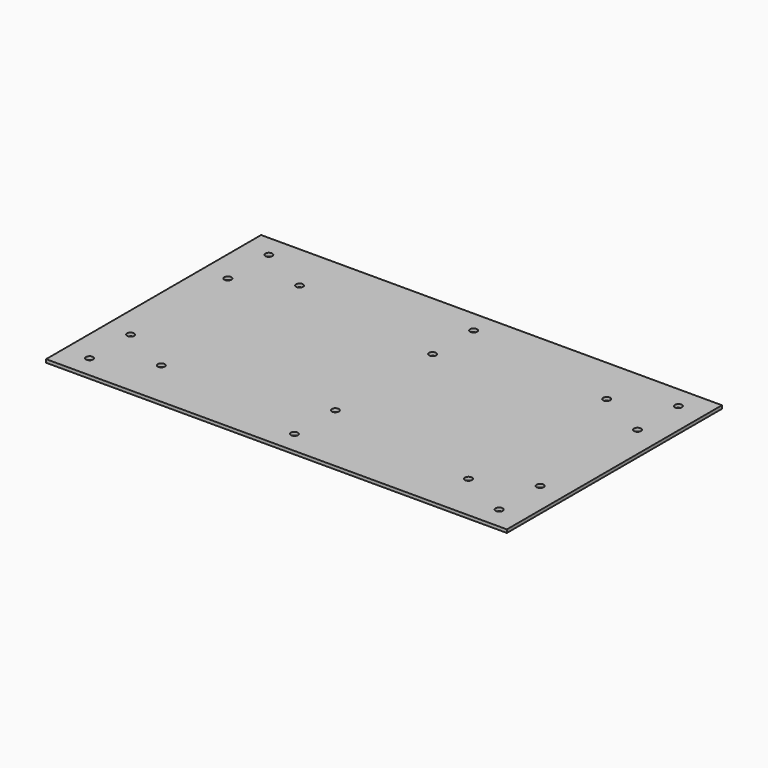
from build123d import *

# Parameters (mm, degrees)
F0_W     = 914.4
F0_H     = 184.15
F0_R     = 6.985
F0_H_2   = 165.1
F1_DEPTH = 6.35


with BuildPart() as f1:
    # F0 (on Top) → F1 (new body)
    with BuildSketch(Plane.XY):
        with Locations((457.2, 174.625)):
            Rectangle(F0_W, F0_H)
        with Locations((50.8, 120.65)):
            Circle(F0_R, mode=Mode.SUBTRACT)
        with Locations((152.4, 171.45)):
            Circle(F0_R, mode=Mode.SUBTRACT)
        with Locations((50.8, 222.25)):
            Circle(F0_R, mode=Mode.SUBTRACT)
        with Locations((457.2, 120.65)):
            Circle(F0_R, mode=Mode.SUBTRACT)
        with Locations((863.6, 120.65)):
            Circle(F0_R, mode=Mode.SUBTRACT)
        with Locations((457.2, 222.25)):
            Circle(F0_R, mode=Mode.SUBTRACT)
        with Locations((762, 171.45)):
            Circle(F0_R, mode=Mode.SUBTRACT)
        with Locations((863.6, 222.25)):
            Circle(F0_R, mode=Mode.SUBTRACT)
        with Locations((457.2, 0)):
            Rectangle(F0_W, F0_H_2)
        with Locations((457.2, -174.625)):
            Rectangle(F0_W, F0_H)
        with Locations((50.8, -222.25)):
            Circle(F0_R, mode=Mode.SUBTRACT)
        with Locations((152.4, -171.45)):
            Circle(F0_R, mode=Mode.SUBTRACT)
        with Locations((50.8, -120.65)):
            Circle(F0_R, mode=Mode.SUBTRACT)
        with Locations((457.2, -222.25)):
            Circle(F0_R, mode=Mode.SUBTRACT)
        with Locations((863.6, -222.25)):
            Circle(F0_R, mode=Mode.SUBTRACT)
        with Locations((762, -171.45)):
            Circle(F0_R, mode=Mode.SUBTRACT)
        with Locations((457.2, -120.65)):
            Circle(F0_R, mode=Mode.SUBTRACT)
        with Locations((863.6, -120.65)):
            Circle(F0_R, mode=Mode.SUBTRACT)
    extrude(amount=F1_DEPTH)


solid = f1.part
